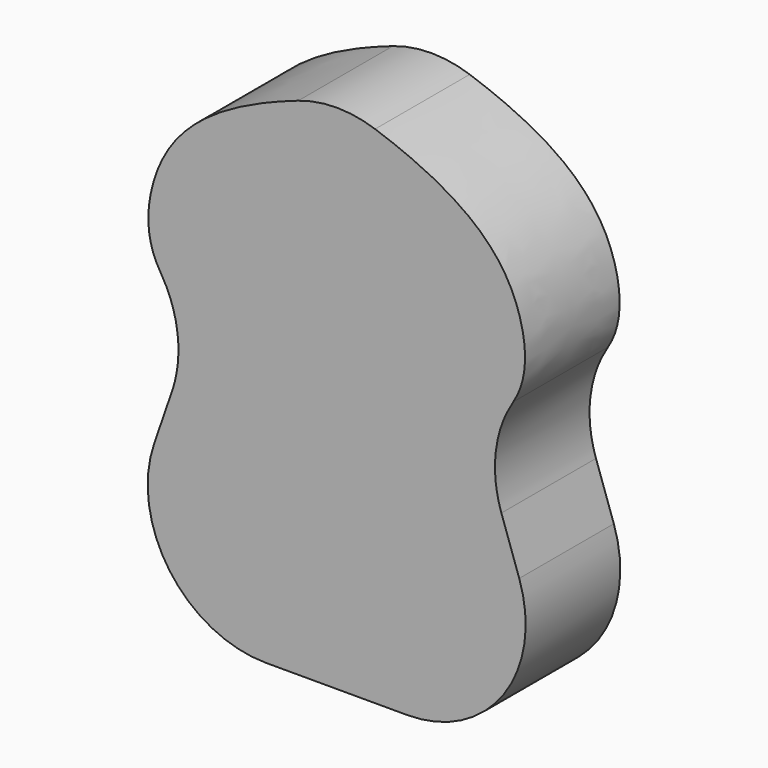
from build123d import *

# Parameters (mm, degrees)
F1_DEPTH = 20
F2_R     = 20


with BuildPart() as f1:
    # F0 (on Front) → F1 (new body)
    with BuildSketch(Plane.XZ):
        with BuildLine():
            add(Edge.make_bspline(
                [(-23.7215922771, -0.0565661716), (-32.264498736, 4.0065232282), (-33.8412582559, 22.6157940639), (-20.1022097981, 34.4951609886), (0, 40.1710787023)],
                knots=[0, 0, 0, 0, 0.4203761881, 1, 1, 1, 1], degree=3))
            Line((-23.7215922771, -0.0565661716), (-40, -47.3324949516))
            Line((-40, -47.3324949516), (0, -47.3324949516))
            Line((0, -47.3324949516), (40, -47.3324949516))
            Line((40, -47.3324949516), (23.7215922771, -0.0565661716))
            add(Edge.make_bspline(
                [(23.7215922771, -0.0565661716), (32.264498736, 4.0065232282), (33.8412582559, 22.6157940639), (20.1022097981, 34.4951609886), (0, 40.1710787023)],
                knots=[0, 0, 0, 0, 0.4203761881, 1, 1, 1, 1], degree=3))
        make_face()
    extrude(amount=F1_DEPTH)

    # F2
    f2_edges = [f1.edges().sort_by_distance(p)[0] for p in [
        (0, -10, 40.171079),
        (40, -10, -47.332495),
        (-23.721592, -10, -0.056566),
        (23.721592, -10, -0.056566),
        (-40, -10, -47.332495),
    ]]
    fillet(f2_edges, radius=F2_R)


solid = f1.part
